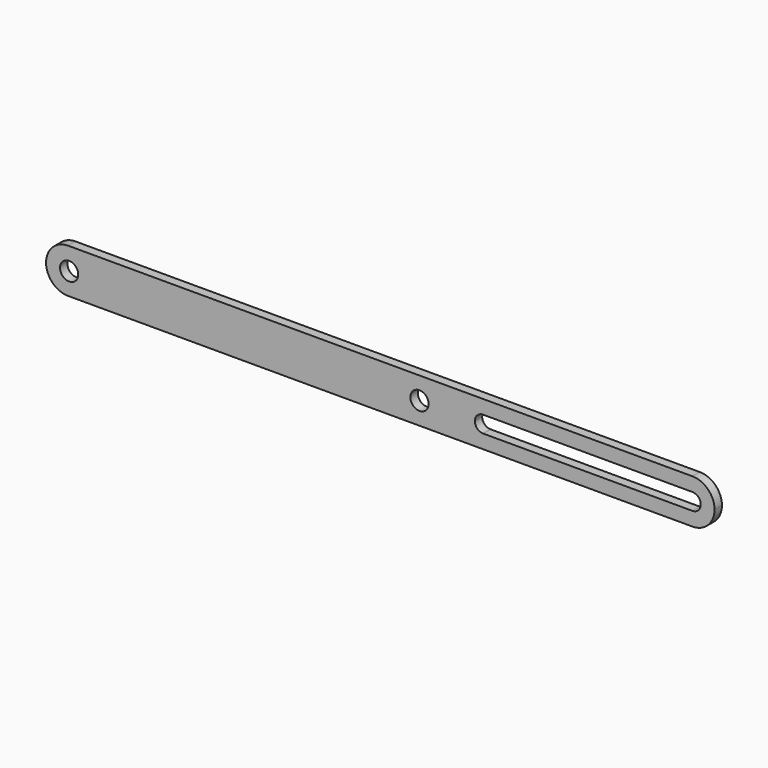
from build123d import *

# Parameters (mm, degrees)
F0_R     = 4.95
F1_DEPTH = 5


with BuildPart() as f1:
    # F0 (on Front) → F1 (new body)
    with BuildSketch(Plane.XZ):
        with BuildLine():
            Line((-220.5, -12), (118, -12))
            ThreePointArc((118, -12), (126.485281, -8.485281), (130, 0))
            ThreePointArc((130, 0), (126.485281, 8.485281), (118, 12))
            Line((118, 12), (-220.5, 12))
            ThreePointArc((-220.5, 12), (-228.985281, 8.485281), (-232.5, 0))
            ThreePointArc((-232.5, 0), (-228.985281, -8.485281), (-220.5, -12))
        make_face()
        with Locations((-220, 0)):
            Circle(F0_R, mode=Mode.SUBTRACT)
        with Locations((-30, 0)):
            Circle(F0_R, mode=Mode.SUBTRACT)
        with BuildLine():
            ThreePointArc((122.5, 0), (121.181981, -3.181981), (118, -4.5))
            Line((118, -4.5), (4.5, -4.5))
            ThreePointArc((4.5, -4.5), (1.318019, -3.181981), (0, 0))
            ThreePointArc((0, 0), (1.318019, 3.181981), (4.5, 4.5))
            Line((4.5, 4.5), (118, 4.5))
            ThreePointArc((118, 4.5), (121.181981, 3.181981), (122.5, 0))
        make_face(mode=Mode.SUBTRACT)
    extrude(amount=F1_DEPTH)


solid = f1.part
